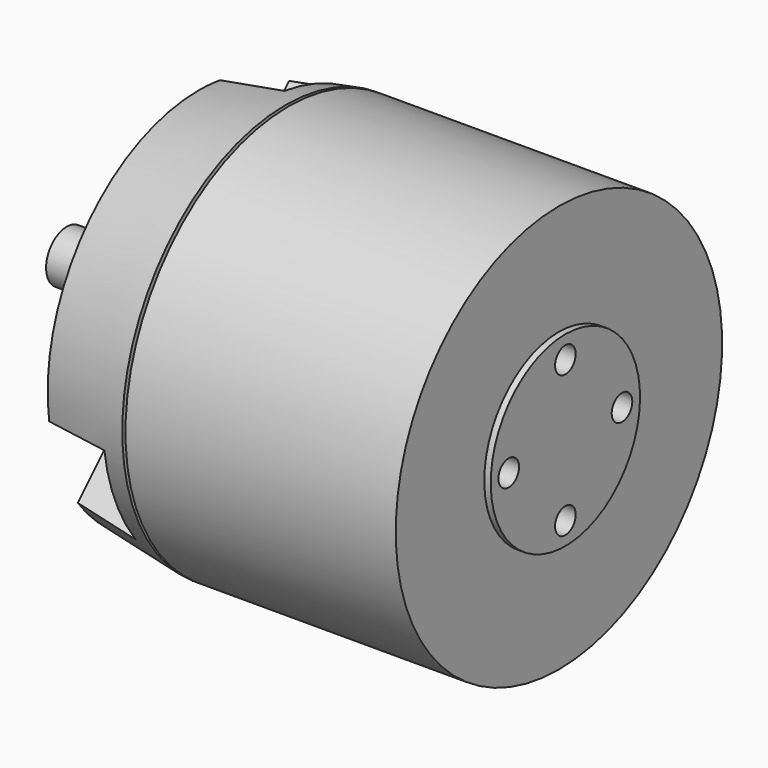
from build123d import *

# Parameters (mm, degrees)
F0_W     = 43
F0_H     = 4
F0_W_2   = 20.5
F0_W_3   = 13.5
F3_R     = 2
F4_DEPTH = 10
F6_T     = -5
F7_DEPTH = 10
F9_DEPTH = 10


with BuildPart() as f1:
    # F0 (on Front) → F1 (revolve)
    with BuildSketch(Plane.XZ):
        Polygon((-14, 4), (-0.5, 4), (-0.5, 31.7), (-14, 29.3195857604), align=None)
    revolve(axis=Axis((4.25, 0, 0), (1, 0, 0)))

    # F6
    f6_openings = [f1.faces().sort_by_distance(p)[0] for p in [
        (-0.5, 0, -4.896611),
    ]]
    offset(amount=F6_T, openings=f6_openings)

    # F5 (on face) → F7 (cut)
    with BuildSketch(Plane(origin=(-14, 0, 0), x_dir=(0, -1, 0), z_dir=(-1, 0, 0))):
        with BuildLine():
            ThreePointArc((-21.9090909091, -1.997932816), (-22, 0), (-21.9090909091, 1.997932816))
            ThreePointArc((-21.9090909091, 1.997932816), (-24, 0), (-21.9090909091, -1.997932816))
        make_face()
        with BuildLine():
            ThreePointArc((-20, 0), (-20.554002389, 1.3816985594), (-21.9090909091, 1.997932816))
            ThreePointArc((-21.9090909091, 1.997932816), (-22, 0), (-21.9090909091, -1.997932816))
            ThreePointArc((-21.9090909091, -1.997932816), (-20.554002389, -1.3816985594), (-20, 0))
        make_face()
        with BuildLine():
            ThreePointArc((-13, 0), (-13.5394065133, 1.3662601021), (-14.8666666667, 1.9955506063))
            ThreePointArc((-14.8666666667, 1.9955506063), (-15, 0), (-14.8666666667, -1.9955506063))
            ThreePointArc((-14.8666666667, -1.9955506063), (-13.5394065133, -1.3662601021), (-13, 0))
        make_face()
        with BuildLine():
            ThreePointArc((-14.8666666667, -1.9955506063), (-15, 0), (-14.8666666667, 1.9955506063))
            ThreePointArc((-14.8666666667, 1.9955506063), (-17, 0), (-14.8666666667, -1.9955506063))
        make_face()
        with BuildLine():
            ThreePointArc((-1.997932816, 21.9090909091), (0, 20), (1.997932816, 21.9090909091))
            ThreePointArc((1.997932816, 21.9090909091), (0, 22), (-1.997932816, 21.9090909091))
        make_face()
        with BuildLine():
            ThreePointArc((-1.997932816, 21.9090909091), (0, 22), (1.997932816, 21.9090909091))
            ThreePointArc((1.997932816, 21.9090909091), (1.9994831372, 21.9545337046), (2, 22))
            ThreePointArc((2, 22), (-0.0454662954, 23.9994831372), (-1.997932816, 21.9090909091))
        make_face()
        with BuildLine():
            ThreePointArc((-1.9955506063, 14.8666666667), (0, 15), (1.9955506063, 14.8666666667))
            ThreePointArc((1.9955506063, 14.8666666667), (1.9988873421, 14.9332962241), (2, 15))
            ThreePointArc((2, 15), (-0.0667037759, 16.9988873421), (-1.9955506063, 14.8666666667))
        make_face()
        with BuildLine():
            ThreePointArc((-1.9955506063, 14.8666666667), (0, 13), (1.9955506063, 14.8666666667))
            ThreePointArc((1.9955506063, 14.8666666667), (0, 15), (-1.9955506063, 14.8666666667))
        make_face()
        with BuildLine():
            ThreePointArc((14.8666666667, -1.9955506063), (14.9666295471, -1), (15, 0))
            ThreePointArc((15, 0), (14.9666295471, 1), (14.8666666667, 1.9955506063))
            ThreePointArc((14.8666666667, 1.9955506063), (13, 0), (14.8666666667, -1.9955506063))
        make_face()
        with BuildLine():
            ThreePointArc((14.8666666667, 1.9955506063), (14.9666295471, 1), (15, 0))
            ThreePointArc((15, 0), (14.9666295471, -1), (14.8666666667, -1.9955506063))
            ThreePointArc((14.8666666667, -1.9955506063), (16.3662601021, -1.4605934867), (17, 0))
            ThreePointArc((17, 0), (16.3662601021, 1.4605934867), (14.8666666667, 1.9955506063))
        make_face()
        with BuildLine():
            ThreePointArc((21.9090909091, -1.997932816), (21.9772609758, -1), (22, 0))
            ThreePointArc((22, 0), (21.9772609758, 1), (21.9090909091, 1.997932816))
            ThreePointArc((21.9090909091, 1.997932816), (20, 0), (21.9090909091, -1.997932816))
        make_face()
        with BuildLine():
            ThreePointArc((21.9090909091, 1.997932816), (21.9772609758, 1), (22, 0))
            ThreePointArc((22, 0), (21.9772609758, -1), (21.9090909091, -1.997932816))
            ThreePointArc((21.9090909091, -1.997932816), (23.3816985594, -1.445997611), (24, 0))
            ThreePointArc((24, 0), (23.3816985594, 1.445997611), (21.9090909091, 1.997932816))
        make_face()
        with BuildLine():
            ThreePointArc((-1.997932816, -21.9090909091), (0, -22), (1.997932816, -21.9090909091))
            ThreePointArc((1.997932816, -21.9090909091), (0, -20), (-1.997932816, -21.9090909091))
        make_face()
        with BuildLine():
            ThreePointArc((2, -15), (1.9988873421, -14.9332962241), (1.9955506063, -14.8666666667))
            ThreePointArc((1.9955506063, -14.8666666667), (0, -15), (-1.9955506063, -14.8666666667))
            ThreePointArc((-1.9955506063, -14.8666666667), (-0.0667037759, -16.9988873421), (2, -15))
        make_face()
        with BuildLine():
            ThreePointArc((-1.9955506063, -14.8666666667), (0, -15), (1.9955506063, -14.8666666667))
            ThreePointArc((1.9955506063, -14.8666666667), (0, -13), (-1.9955506063, -14.8666666667))
        make_face()
        with BuildLine():
            ThreePointArc((2, -22), (1.9994831372, -21.9545337046), (1.997932816, -21.9090909091))
            ThreePointArc((1.997932816, -21.9090909091), (0, -22), (-1.997932816, -21.9090909091))
            ThreePointArc((-1.997932816, -21.9090909091), (-0.0454662954, -23.9994831372), (2, -22))
        make_face()
    extrude(amount=-F7_DEPTH, mode=Mode.SUBTRACT)

    # F8 (on face) → F9 (cut)
    with BuildSketch(Plane(origin=(-14, 0, 0), x_dir=(0, -1, 0), z_dir=(-1, 0, 0))):
        with BuildLine():
            Line((-17.5763126131, 23.4672398055), (-9.7935185074, 15.6844456998))
            ThreePointArc((-9.7935185074, 15.6844456998), (-5.9065774098, 14.25973929), (-4.1655145652, 18.0156412618))
            Line((-4.1655145652, 18.0156412618), (-4.1655145652, 29.0221742392))
            ThreePointArc((-4.1655145652, 29.0221742392), (-11.2201197143, 27.0877651858), (-17.5763126131, 23.4672398055))
        make_face()
        with BuildLine():
            Line((-25.8802412401, 31.7711684325), (-17.5763126131, 23.4672398055))
            ThreePointArc((-17.5763126131, 23.4672398055), (-11.2201197143, 27.0877651858), (-4.1655145652, 29.0221742392))
            Line((-4.1655145652, 29.0221742392), (-4.1655145652, 40.7657027245))
            Line((-4.1655145652, 40.7657027245), (-15.0228779027, 36.2684355785))
            Line((-15.0228779027, 36.2684355785), (-25.8802412401, 31.7711684325))
        make_face()
        with BuildLine():
            ThreePointArc((-29.0221742392, 4.1655145652), (-27.0877651858, 11.2201197143), (-23.4672398055, 17.5763126131))
            Line((-23.4672398055, 17.5763126131), (-31.7711684325, 25.8802412401))
            Line((-31.7711684325, 25.8802412401), (-36.2684355785, 15.0228779027))
            Line((-36.2684355785, 15.0228779027), (-40.7657027245, 4.1655145652))
            Line((-40.7657027245, 4.1655145652), (-29.0221742392, 4.1655145652))
        make_face()
        with BuildLine():
            Line((-15.6844456998, 9.7935185074), (-23.4672398055, 17.5763126131))
            ThreePointArc((-23.4672398055, 17.5763126131), (-27.0877651858, 11.2201197143), (-29.0221742392, 4.1655145652))
            Line((-29.0221742392, 4.1655145652), (-18.0156412618, 4.1655145652))
            ThreePointArc((-18.0156412618, 4.1655145652), (-14.25973929, 5.9065774098), (-15.6844456998, 9.7935185074))
        make_face()
        with BuildLine():
            ThreePointArc((-23.4672398055, -17.5763126131), (-27.0877651858, -11.2201197143), (-29.0221742392, -4.1655145652))
            Line((-29.0221742392, -4.1655145652), (-40.7657027245, -4.1655145652))
            Line((-40.7657027245, -4.1655145652), (-36.2684355785, -15.0228779027))
            Line((-36.2684355785, -15.0228779027), (-31.7711684325, -25.8802412401))
            Line((-31.7711684325, -25.8802412401), (-23.4672398055, -17.5763126131))
        make_face()
        with BuildLine():
            Line((-18.0156412618, -4.1655145652), (-29.0221742392, -4.1655145652))
            ThreePointArc((-29.0221742392, -4.1655145652), (-27.0877651858, -11.2201197143), (-23.4672398055, -17.5763126131))
            Line((-23.4672398055, -17.5763126131), (-15.6844456998, -9.7935185074))
            ThreePointArc((-15.6844456998, -9.7935185074), (-14.25973929, -5.9065774098), (-18.0156412618, -4.1655145652))
        make_face()
        with BuildLine():
            ThreePointArc((-4.1655145652, -29.0221742392), (-11.2201197143, -27.0877651858), (-17.5763126131, -23.4672398055))
            Line((-17.5763126131, -23.4672398055), (-25.8802412401, -31.7711684325))
            Line((-25.8802412401, -31.7711684325), (-15.0228779027, -36.2684355785))
            Line((-15.0228779027, -36.2684355785), (-4.1655145652, -40.7657027245))
            Line((-4.1655145652, -40.7657027245), (-4.1655145652, -29.0221742392))
        make_face()
        with BuildLine():
            Line((-9.7935185074, -15.6844456998), (-17.5763126131, -23.4672398055))
            ThreePointArc((-17.5763126131, -23.4672398055), (-11.2201197143, -27.0877651858), (-4.1655145652, -29.0221742392))
            Line((-4.1655145652, -29.0221742392), (-4.1655145652, -18.0156412618))
            ThreePointArc((-4.1655145652, -18.0156412618), (-5.9065774098, -14.25973929), (-9.7935185074, -15.6844456998))
        make_face()
        with BuildLine():
            ThreePointArc((17.5763126131, -23.4672398055), (11.2201197143, -27.0877651858), (4.1655145652, -29.0221742392))
            Line((4.1655145652, -29.0221742392), (4.1655145652, -40.7657027245))
            Line((4.1655145652, -40.7657027245), (15.0228779027, -36.2684355785))
            Line((15.0228779027, -36.2684355785), (25.8802412401, -31.7711684325))
            Line((25.8802412401, -31.7711684325), (17.5763126131, -23.4672398055))
        make_face()
        with BuildLine():
            Line((4.1655145652, -18.0156412618), (4.1655145652, -29.0221742392))
            ThreePointArc((4.1655145652, -29.0221742392), (11.2201197143, -27.0877651858), (17.5763126131, -23.4672398055))
            Line((17.5763126131, -23.4672398055), (9.7935185074, -15.6844456998))
            ThreePointArc((9.7935185074, -15.6844456998), (5.9065774098, -14.25973929), (4.1655145652, -18.0156412618))
        make_face()
        with BuildLine():
            Line((40.7657027245, -4.1655145652), (29.0221742392, -4.1655145652))
            ThreePointArc((29.0221742392, -4.1655145652), (27.0877651858, -11.2201197143), (23.4672398055, -17.5763126131))
            Line((23.4672398055, -17.5763126131), (31.7711684325, -25.8802412401))
            Line((31.7711684325, -25.8802412401), (36.2684355785, -15.0228779027))
            Line((36.2684355785, -15.0228779027), (40.7657027245, -4.1655145652))
        make_face()
        with BuildLine():
            ThreePointArc((23.4672398055, -17.5763126131), (27.0877651858, -11.2201197143), (29.0221742392, -4.1655145652))
            Line((29.0221742392, -4.1655145652), (18.0156412618, -4.1655145652))
            ThreePointArc((18.0156412618, -4.1655145652), (14.25973929, -5.9065774098), (15.6844456998, -9.7935185074))
            Line((15.6844456998, -9.7935185074), (23.4672398055, -17.5763126131))
        make_face()
    extrude(amount=-F9_DEPTH, mode=Mode.SUBTRACT)


with BuildPart() as f2:
    # F0 (on Front) → F2 (revolve)
    with BuildSketch(Plane.XZ):
        Polygon((0, 31.7), (0, 4), (43, 4), (43, 14.5), (42, 14.5), (42, 31.7), align=None)
        with Locations((21.5, 2)):
            Rectangle(F0_W, F0_H)
    revolve(axis=Axis((4.25, 0, 0), (1, 0, 0)))

    # F3 (on face) → F4 (cut)
    with BuildSketch(Plane.YZ.offset(43)):
        with Locations((0, 11)):
            Circle(F3_R)
        with Locations((-11, 0)):
            Circle(F3_R)
        with Locations((0, -11)):
            Circle(F3_R)
        with Locations((11, 0)):
            Circle(F3_R)
    extrude(amount=-F4_DEPTH, mode=Mode.SUBTRACT)


with BuildPart() as f2b:
    # F0 (on Front) → F2, piece 2 (revolve)
    with BuildSketch(Plane.XZ):
        with Locations((-24.25, 2)):
            Rectangle(F0_W_2, F0_H)
        with Locations((-7.25, 2)):
            Rectangle(F0_W_3, F0_H)
    revolve(axis=Axis((4.25, 0, 0), (1, 0, 0)))


solid = Compound([f1.part, f2.part, f2b.part])
